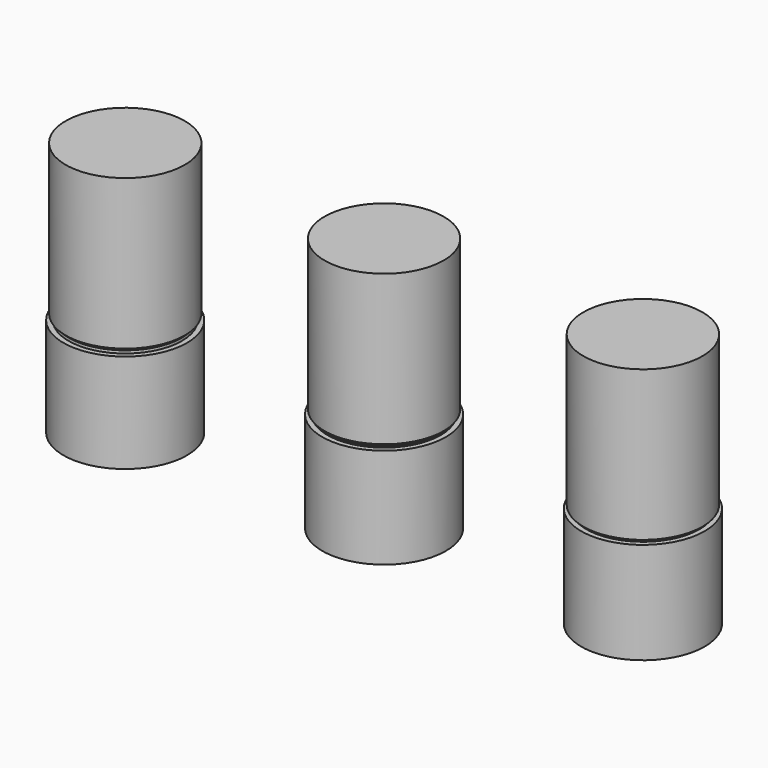
from build123d import *


with BuildPart() as f1:
    # F0 (on Front) → F1 (revolve)
    with BuildSketch(Plane.XZ):
        Polygon((0, 1), (0, 0), (9.55, 0), (9.55, 15.5), (8.75, 15.5), (8.75, 1), align=None)
    revolve(axis=Axis((0, 0, 5.78928), (0, 0, 1)))

    # F8 (on Front) → F9 (revolve)
    with BuildSketch(Plane.XZ):
        Polygon((0, 39.4), (0, 1), (8.7, 1), (8.7, 15.7), (9.2, 16.2), (9.2, 39.4), align=None)
    revolve(axis=Axis((0, 0, 20.2), (0, 0, -1)))


with BuildPart() as f3:
    # F2 (on Front) → F3 (revolve)
    with BuildSketch(Plane.XZ):
        Polygon((-40, 1), (-40, 0), (-30.45, 0), (-30.45, 15.3), (-31.25, 15.3), (-31.25, 1), align=None)
    revolve(axis=Axis((-40, 0, 6.747161), (0, 0, 1)))

    # F6 (on Front) → F7 (revolve)
    with BuildSketch(Plane.XZ):
        Polygon((-40, 39.4), (-40, 1), (-31.3, 1), (-31.3, 15.7), (-30.8, 16.2), (-30.8, 39.4), align=None)
    revolve(axis=Axis((-40, 0, 20.2), (0, 0, -1)))


with BuildPart() as f5:
    # F4 (on Front) → F5 (revolve)
    with BuildSketch(Plane.XZ):
        Polygon((40, 1), (40, 0), (49.55, 0), (49.55, 15.7), (48.75, 15.7), (48.75, 1), align=None)
    revolve(axis=Axis((40, 0, 6.912579), (0, 0, 1)))

    # F10 (on Front) → F11 (revolve)
    with BuildSketch(Plane.XZ):
        Polygon((40, 39.4), (40, 1), (48.7, 1), (48.7, 15.7), (49.2, 16.2), (49.2, 39.4), align=None)
    revolve(axis=Axis((40, 0, 20.2), (0, 0, -1)))


solid = Compound([f1.part, f3.part, f5.part])
